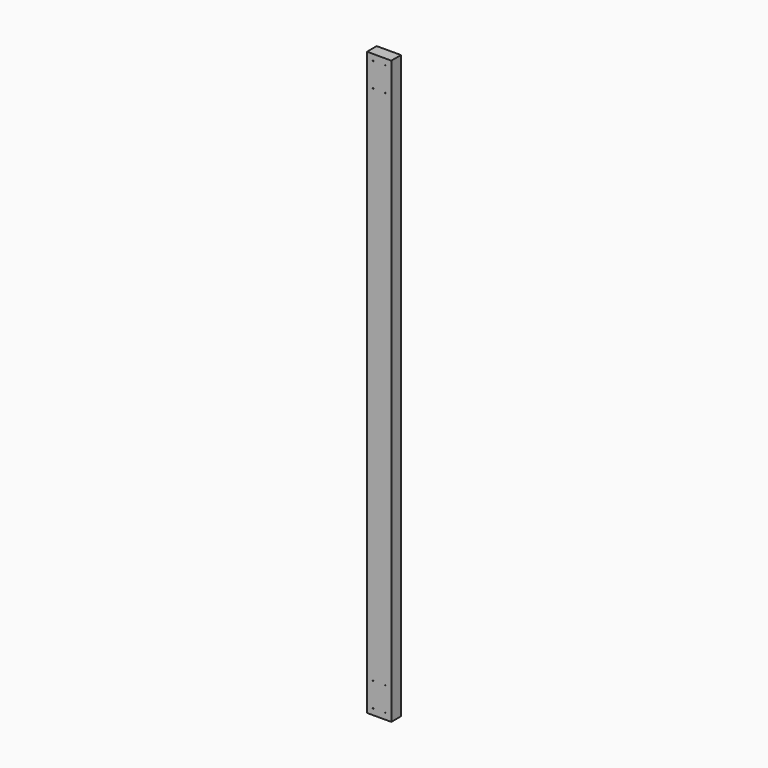
from build123d import *

# Parameters (mm, degrees)
F0_W     = 101.6
F0_H     = 2438.4
F0_R     = 1.5875
F1_DEPTH = 50.8


with BuildPart() as f1:
    # F0 (on Front) → F1 (new body)
    with BuildSketch(Plane.XZ):
        with Locations((8.806286, 1092.2)):
            Rectangle(F0_W, F0_H)
        with Locations((-16.593714, -101.6)):
            Circle(F0_R, mode=Mode.SUBTRACT)
        with Locations((-16.593714, 0)):
            Circle(F0_R, mode=Mode.SUBTRACT)
        with Locations((34.206286, -101.6)):
            Circle(F0_R, mode=Mode.SUBTRACT)
        with Locations((34.206286, 0)):
            Circle(F0_R, mode=Mode.SUBTRACT)
        with Locations((-16.593714, 2184.4)):
            Circle(F0_R, mode=Mode.SUBTRACT)
        with Locations((-16.593714, 2286)):
            Circle(F0_R, mode=Mode.SUBTRACT)
        with Locations((34.206286, 2184.4)):
            Circle(F0_R, mode=Mode.SUBTRACT)
        with Locations((34.206286, 2286)):
            Circle(F0_R, mode=Mode.SUBTRACT)
    extrude(amount=F1_DEPTH)


solid = f1.part
